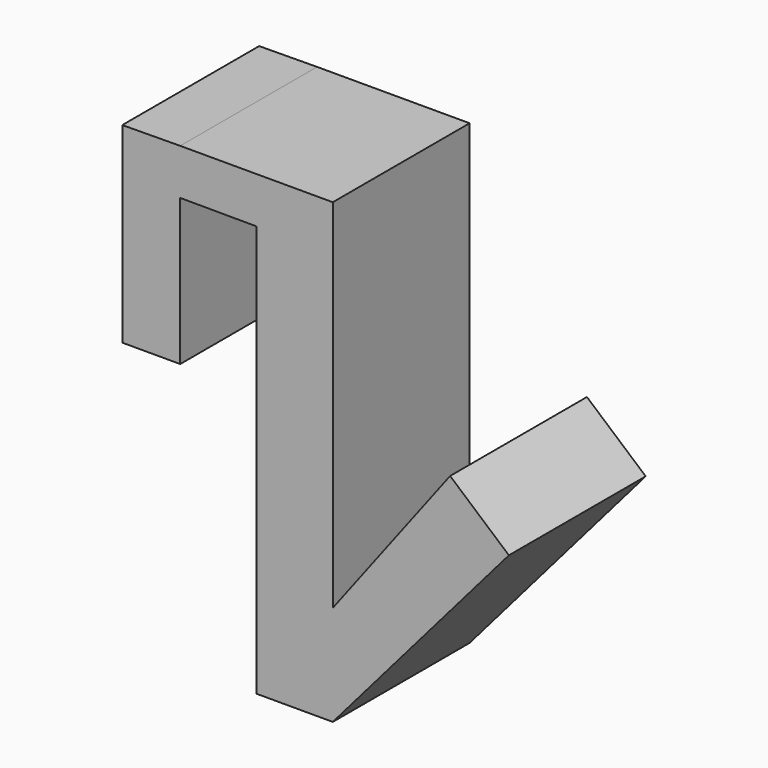
from build123d import *

# Parameters (mm, degrees)
F1_DEPTH = 25


with BuildPart() as f1:
    # F0 (on Front) → F1 (new body)
    with BuildSketch(Plane.XZ):
        Polygon((-23.6734980222, 39.0396707756), (-32.0782363415, 38.9619767666), (-32.0782363415, 17.6561103577), (-23.6734980222, 17.6561103577), align=None)
        Polygon((-32.1401390579, 45.6584536185), (-32.0782363415, 38.9619767666), (-23.6734980222, 39.0396707756), (-12.5234980222, 39.0008237711), (-12.5234980222, 45.7367198607), (-23.6734980222, 45.7367198607), align=None)
        Polygon((-12.5234980222, 45.7367198607), (-12.5234980222, 39.0008237711), (-1.3734980222, 38.9619767666), align=None)
        Polygon((-1.3734980222, 38.9619767666), (-12.5234980222, 39.0008237711), (-12.5234980222, -21.1397777129), (-1.3734980222, -6.4730470867), align=None)
        Polygon((-12.5234980222, 45.7367198607), (-1.3734980222, 38.9619767666), (-1.3734980222, 45.7367198607), align=None)
        Polygon((-1.3734980222, -6.4730470867), (-12.5234980222, -21.1397777129), (-1.3734980222, -21.1397777129), align=None)
        Polygon((15.7792718965, 16.0897381949), (-1.3734980222, -6.4730470867), (-1.3734980222, -21.1397777129), (24.3684463203, 8.6735142395), align=None)
    extrude(amount=F1_DEPTH)


solid = f1.part
